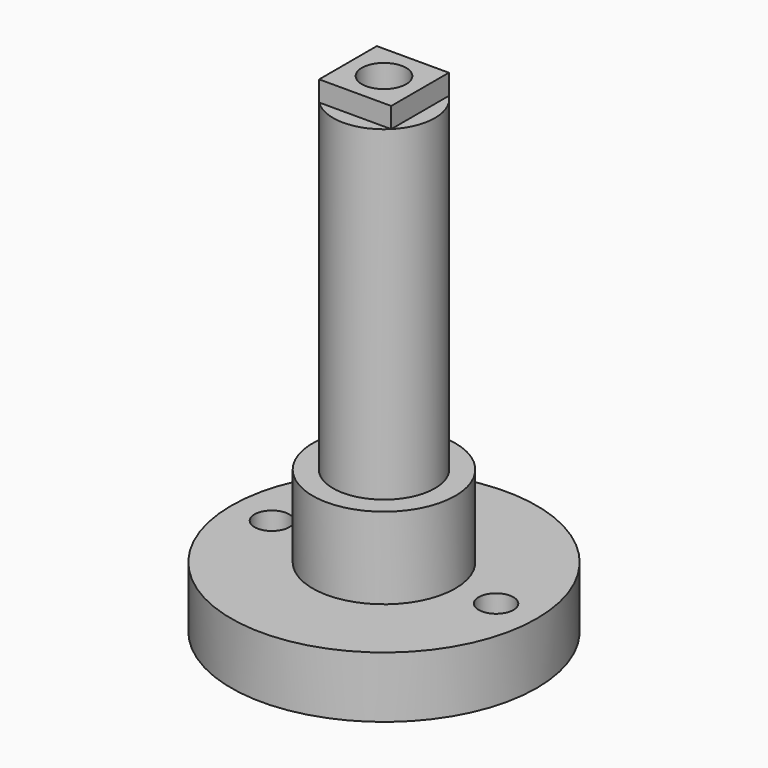
from build123d import *

# Parameters (mm, degrees)
F0_R     = 3.96875
F1_DEPTH = 25.4
F2_W     = 5.61266
F2_H     = 5.61266
F3_DEPTH = 1.5875
F4_R     = 1.7272
F5_DEPTH = 6.35
F6_R     = 5.55625
F7_DEPTH = 6.35
F8_R     = 11.90625
F8_R_2   = 1.35255
F9_DEPTH = 4.7625


with BuildPart() as f1:
    # F0 (on Top) → F1 (new body)
    with BuildSketch(Plane.XY):
        Circle(F0_R)
    extrude(amount=F1_DEPTH)

    # F2 (on face) → F3 (join)
    with BuildSketch(Plane.XY.offset(25.4)):
        Rectangle(F2_W, F2_H)
    extrude(amount=F3_DEPTH)

    # F4 (on face) → F5 (cut)
    with BuildSketch(Plane.XY.offset(26.9875)):
        Circle(F4_R)
    extrude(amount=-F5_DEPTH, mode=Mode.SUBTRACT)

    # F6 (on face) → F7 (join)
    with BuildSketch(Plane(origin=(0, 0, 0), x_dir=(1, 0, 0), z_dir=(0, 0, -1))):
        Circle(F6_R)
    extrude(amount=F7_DEPTH)

    # F8 (on face) → F9 (join)
    with BuildSketch(Plane(origin=(0, 0, -6.35), x_dir=(1, 0, 0), z_dir=(0, 0, -1))):
        Circle(F8_R)
        with Locations((-8.73125, 0)):
            Circle(F8_R_2, mode=Mode.SUBTRACT)
        with Locations((8.73125, 0)):
            Circle(F8_R_2, mode=Mode.SUBTRACT)
    extrude(amount=F9_DEPTH)


solid = f1.part
